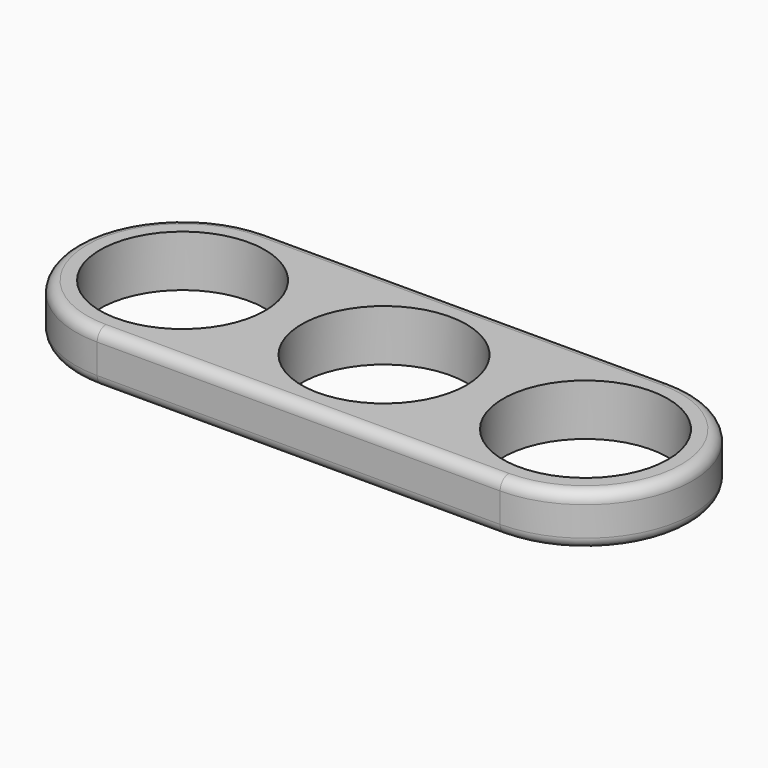
from build123d import *

# Parameters (mm, degrees)
F0_R     = 11.2
F1_DEPTH = 7
F2_R     = 1.5


with BuildPart() as f1:
    # F0 (on Top) → F1 (new body)
    with BuildSketch(Plane.XY):
        with BuildLine():
            Line((-27.380668, -14.5), (27.380668, -14.5))
            ThreePointArc((27.380668, -14.5), (41.880668, 0), (27.380668, 14.5))
            Line((27.380668, 14.5), (-27.380668, 14.5))
            ThreePointArc((-27.380668, 14.5), (-41.880668, 0), (-27.380668, -14.5))
        make_face()
        with Locations((-27.380668, 0)):
            Circle(F0_R, mode=Mode.SUBTRACT)
        Circle(F0_R, mode=Mode.SUBTRACT)
        with Locations((27.380668, 0)):
            Circle(F0_R, mode=Mode.SUBTRACT)
    extrude(amount=F1_DEPTH)

    # F2
    f2_edges = [f1.edges().sort_by_distance(p)[0] for p in [
        (0, -14.5, 7),
        (0, -14.5, 0),
    ]]
    fillet(f2_edges, radius=F2_R)


solid = f1.part
